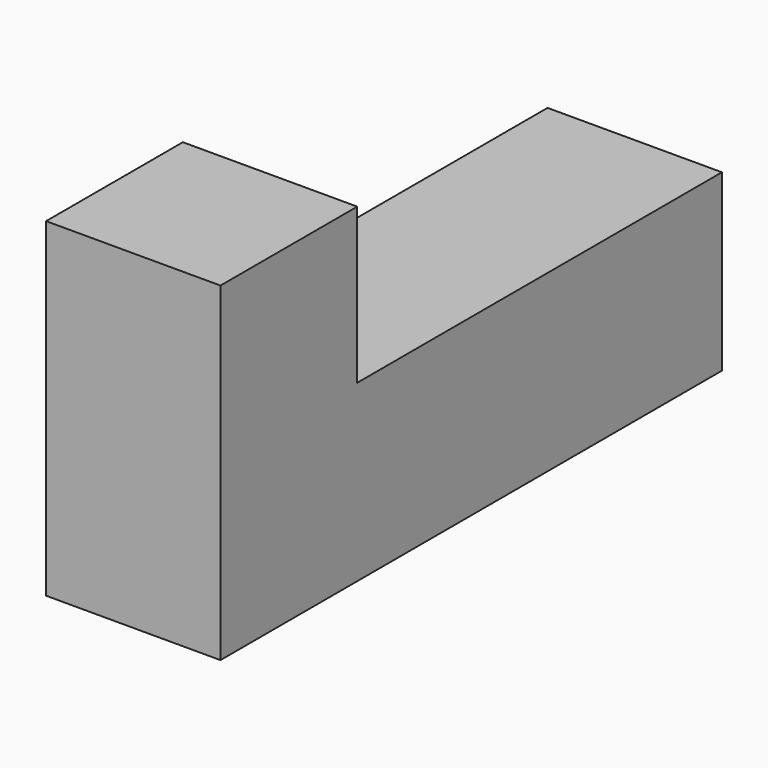
from build123d import *

# Parameters (mm, degrees)
F0_W          = 3.886314
F0_H          = 3.89309
F1_DEPTH      = 5.08
F1_DEPTH_BACK = 5.08
F2_W          = 3.886314
F2_H          = 7.349639
F3_DEPTH      = 3.81


with BuildPart() as f1:
    # F0 (on Front) → F1 (new body, two sides)
    with BuildSketch(Plane.XZ) as f1_sk:
        Rectangle(F0_W, F0_H)
    extrude(amount=F1_DEPTH)
    extrude(f1_sk.sketch, amount=-F1_DEPTH_BACK)

    # F2 (on face) → F3 (join)
    with BuildSketch(Plane.XZ.offset(5.08)):
        with Locations((0, 1.728274)):
            Rectangle(F2_W, F2_H)
    extrude(amount=F3_DEPTH)


solid = f1.part
